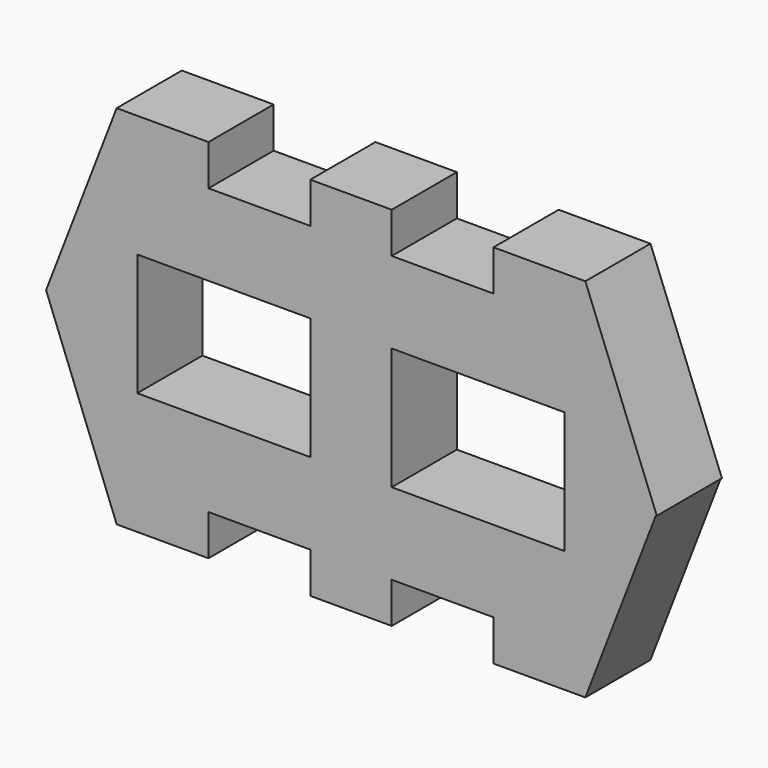
from build123d import *

# Parameters (mm, degrees)
F1_DEPTH = 25.4


with BuildPart() as f1:
    # F0 (on Front) → F1 (new body)
    with BuildSketch(Plane.XZ):
        Polygon((-12.7, 19.05), (-12.7, 44.45), (-44.45, 44.45), (-44.45, 57.15), (-73.100664, 57.15), (-95.115015, 0), (-73.100664, -57.15), (-44.45, -57.15), (-44.45, -44.45), (-12.7, -44.45), (-12.7, -19.05), (-66.675, -19.05), (-66.675, 0), (-66.675, 19.05), align=None)
        Polygon((12.7, 44.45), (12.7, 57.15), (-12.7, 57.15), (-12.7, 44.45), (-12.7, 19.05), (-12.7, 0), (12.7, 0), (12.7, 19.05), align=None)
        Polygon((12.7, -19.05), (12.7, 0), (-12.7, 0), (-12.7, -19.05), (-12.7, -44.45), (-12.7, -57.15), (12.7, -57.15), (12.7, -44.45), align=None)
        Polygon((44.45, 44.45), (12.7, 44.45), (12.7, 19.05), (66.675, 19.05), (66.675, 0), (66.675, -19.05), (12.7, -19.05), (12.7, -44.45), (44.45, -44.45), (44.45, -57.15), (73.100664, -57.15), (95.115015, 0), (95.384985, 0), (73.100664, 57.15), (44.45, 57.15), align=None)
    extrude(amount=F1_DEPTH)


solid = f1.part
